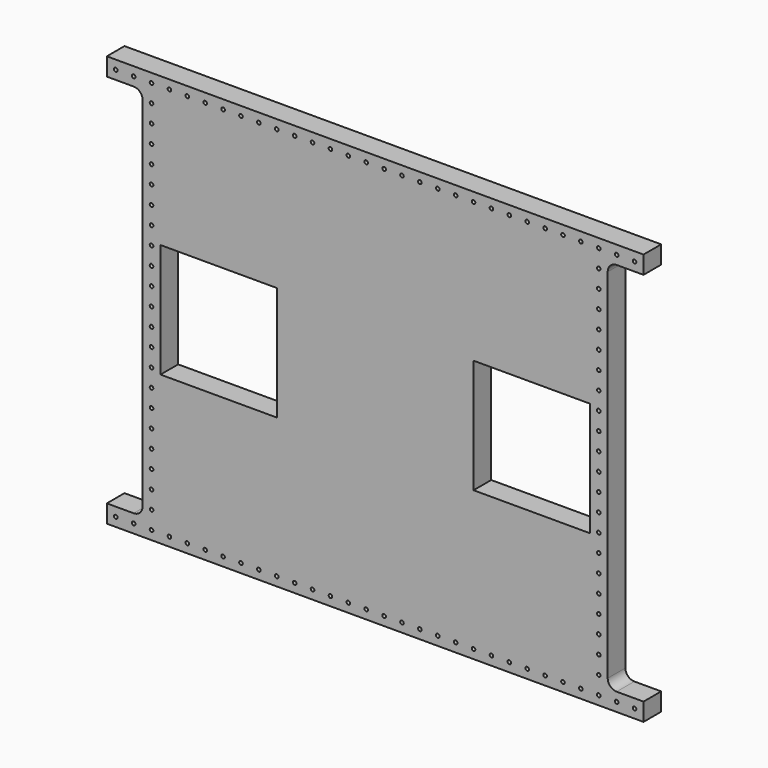
from build123d import *

# Parameters (mm, degrees)
F0_R      = 2.5527
F1_DEPTH  = 6
F2_W      = 165.1
F2_H      = 161.925
F3_DEPTH  = 25.4
F1_FACE_R = 2.5527
F1_FACE_W = 165.1
F1_FACE_H = 161.925
F4_DEPTH  = 25.4


with BuildPart() as f1:
    # F0 (on Front) → F1 (new body)
    with BuildSketch(Plane.XZ):
        with BuildLine():
            Line((381, 292.1), (-381, 292.1))
            Line((-381, 292.1), (-381, 266.7))
            Line((-381, 266.7), (-342.9, 266.7))
            ThreePointArc((-342.9, 266.7), (-333.919744, 262.980256), (-330.2, 254))
            Line((-330.2, 254), (-330.2, -254))
            ThreePointArc((-330.2, -254), (-333.919744, -262.980256), (-342.9, -266.7))
            Line((-342.9, -266.7), (-381, -266.7))
            Line((-381, -266.7), (-381, -292.1))
            Line((-381, -292.1), (381, -292.1))
            Line((381, -292.1), (381, -266.7))
            Line((381, -266.7), (342.9, -266.7))
            ThreePointArc((342.9, -266.7), (333.919744, -262.980256), (330.2, -254))
            Line((330.2, -254), (330.2, 254))
            ThreePointArc((330.2, 254), (333.919744, 262.980256), (342.9, 266.7))
            Line((342.9, 266.7), (381, 266.7))
            Line((381, 266.7), (381, 292.1))
        make_face()
        with Locations((-368.3, -279.4)):
            Circle(F0_R, mode=Mode.SUBTRACT)
        with Locations((-342.9, -279.4)):
            Circle(F0_R, mode=Mode.SUBTRACT)
        with Locations((-317.5, -279.4)):
            Circle(F0_R, mode=Mode.SUBTRACT)
        with Locations((-292.1, -279.4)):
            Circle(F0_R, mode=Mode.SUBTRACT)
        with Locations((-317.5, -254)):
            Circle(F0_R, mode=Mode.SUBTRACT)
        with Locations((-317.5, -228.6)):
            Circle(F0_R, mode=Mode.SUBTRACT)
        with Locations((-266.7, -279.4)):
            Circle(F0_R, mode=Mode.SUBTRACT)
        with Locations((-241.3, -279.4)):
            Circle(F0_R, mode=Mode.SUBTRACT)
        with Locations((-215.9, -279.4)):
            Circle(F0_R, mode=Mode.SUBTRACT)
        with Locations((-317.5, -203.2)):
            Circle(F0_R, mode=Mode.SUBTRACT)
        with Locations((-317.5, -177.8)):
            Circle(F0_R, mode=Mode.SUBTRACT)
        with Locations((-317.5, -152.4)):
            Circle(F0_R, mode=Mode.SUBTRACT)
        with Locations((-190.5, -279.4)):
            Circle(F0_R, mode=Mode.SUBTRACT)
        with Locations((-165.1, -279.4)):
            Circle(F0_R, mode=Mode.SUBTRACT)
        with Locations((-139.7, -279.4)):
            Circle(F0_R, mode=Mode.SUBTRACT)
        with Locations((-114.3, -279.4)):
            Circle(F0_R, mode=Mode.SUBTRACT)
        with Locations((-88.9, -279.4)):
            Circle(F0_R, mode=Mode.SUBTRACT)
        with Locations((-63.5, -279.4)):
            Circle(F0_R, mode=Mode.SUBTRACT)
        with Locations((-38.1, -279.4)):
            Circle(F0_R, mode=Mode.SUBTRACT)
        with Locations((-12.7, -279.4)):
            Circle(F0_R, mode=Mode.SUBTRACT)
        with Locations((-317.5, -127)):
            Circle(F0_R, mode=Mode.SUBTRACT)
        with Locations((-317.5, -101.6)):
            Circle(F0_R, mode=Mode.SUBTRACT)
        with Locations((-317.5, -76.2)):
            Circle(F0_R, mode=Mode.SUBTRACT)
        with Locations((-317.5, -50.8)):
            Circle(F0_R, mode=Mode.SUBTRACT)
        with Locations((-317.5, -25.4)):
            Circle(F0_R, mode=Mode.SUBTRACT)
        with Locations((12.7, -279.4)):
            Circle(F0_R, mode=Mode.SUBTRACT)
        with Locations((38.1, -279.4)):
            Circle(F0_R, mode=Mode.SUBTRACT)
        with Locations((63.5, -279.4)):
            Circle(F0_R, mode=Mode.SUBTRACT)
        with Locations((88.9, -279.4)):
            Circle(F0_R, mode=Mode.SUBTRACT)
        with Locations((114.3, -279.4)):
            Circle(F0_R, mode=Mode.SUBTRACT)
        with Locations((139.7, -279.4)):
            Circle(F0_R, mode=Mode.SUBTRACT)
        with Locations((165.1, -279.4)):
            Circle(F0_R, mode=Mode.SUBTRACT)
        with Locations((190.5, -279.4)):
            Circle(F0_R, mode=Mode.SUBTRACT)
        with Locations((215.9, -279.4)):
            Circle(F0_R, mode=Mode.SUBTRACT)
        with Locations((241.3, -279.4)):
            Circle(F0_R, mode=Mode.SUBTRACT)
        with Locations((266.7, -279.4)):
            Circle(F0_R, mode=Mode.SUBTRACT)
        with Locations((292.1, -279.4)):
            Circle(F0_R, mode=Mode.SUBTRACT)
        with Locations((317.5, -279.4)):
            Circle(F0_R, mode=Mode.SUBTRACT)
        with Locations((342.9, -279.4)):
            Circle(F0_R, mode=Mode.SUBTRACT)
        with Locations((368.3, -279.4)):
            Circle(F0_R, mode=Mode.SUBTRACT)
        with Locations((317.5, -254)):
            Circle(F0_R, mode=Mode.SUBTRACT)
        with Locations((317.5, -228.6)):
            Circle(F0_R, mode=Mode.SUBTRACT)
        with Locations((317.5, -203.2)):
            Circle(F0_R, mode=Mode.SUBTRACT)
        with Locations((317.5, -177.8)):
            Circle(F0_R, mode=Mode.SUBTRACT)
        with Locations((317.5, -152.4)):
            Circle(F0_R, mode=Mode.SUBTRACT)
        with Locations((317.5, -127)):
            Circle(F0_R, mode=Mode.SUBTRACT)
        with Locations((317.5, -101.6)):
            Circle(F0_R, mode=Mode.SUBTRACT)
        with Locations((317.5, -76.2)):
            Circle(F0_R, mode=Mode.SUBTRACT)
        with Locations((317.5, -50.8)):
            Circle(F0_R, mode=Mode.SUBTRACT)
        with Locations((317.5, -25.4)):
            Circle(F0_R, mode=Mode.SUBTRACT)
        with Locations((-317.5, 0)):
            Circle(F0_R, mode=Mode.SUBTRACT)
        with Locations((-317.5, 25.4)):
            Circle(F0_R, mode=Mode.SUBTRACT)
        with Locations((-317.5, 50.8)):
            Circle(F0_R, mode=Mode.SUBTRACT)
        with Locations((-317.5, 76.2)):
            Circle(F0_R, mode=Mode.SUBTRACT)
        with Locations((-317.5, 101.6)):
            Circle(F0_R, mode=Mode.SUBTRACT)
        with Locations((-317.5, 127)):
            Circle(F0_R, mode=Mode.SUBTRACT)
        with Locations((-317.5, 152.4)):
            Circle(F0_R, mode=Mode.SUBTRACT)
        with Locations((-317.5, 177.8)):
            Circle(F0_R, mode=Mode.SUBTRACT)
        with Locations((-317.5, 203.2)):
            Circle(F0_R, mode=Mode.SUBTRACT)
        with Locations((-317.5, 228.6)):
            Circle(F0_R, mode=Mode.SUBTRACT)
        with Locations((-317.5, 254)):
            Circle(F0_R, mode=Mode.SUBTRACT)
        with Locations((-368.3, 279.4)):
            Circle(F0_R, mode=Mode.SUBTRACT)
        with Locations((-342.9, 279.4)):
            Circle(F0_R, mode=Mode.SUBTRACT)
        with Locations((-317.5, 279.4)):
            Circle(F0_R, mode=Mode.SUBTRACT)
        with Locations((-292.1, 279.4)):
            Circle(F0_R, mode=Mode.SUBTRACT)
        with Locations((-266.7, 279.4)):
            Circle(F0_R, mode=Mode.SUBTRACT)
        with Locations((-241.3, 279.4)):
            Circle(F0_R, mode=Mode.SUBTRACT)
        with Locations((-215.9, 279.4)):
            Circle(F0_R, mode=Mode.SUBTRACT)
        with Locations((-190.5, 279.4)):
            Circle(F0_R, mode=Mode.SUBTRACT)
        with Locations((-165.1, 279.4)):
            Circle(F0_R, mode=Mode.SUBTRACT)
        with Locations((-139.7, 279.4)):
            Circle(F0_R, mode=Mode.SUBTRACT)
        with Locations((-114.3, 279.4)):
            Circle(F0_R, mode=Mode.SUBTRACT)
        with Locations((-88.9, 279.4)):
            Circle(F0_R, mode=Mode.SUBTRACT)
        with Locations((-63.5, 279.4)):
            Circle(F0_R, mode=Mode.SUBTRACT)
        with Locations((-38.1, 279.4)):
            Circle(F0_R, mode=Mode.SUBTRACT)
        with Locations((-12.7, 279.4)):
            Circle(F0_R, mode=Mode.SUBTRACT)
        with Locations((317.5, 0)):
            Circle(F0_R, mode=Mode.SUBTRACT)
        with Locations((317.5, 25.4)):
            Circle(F0_R, mode=Mode.SUBTRACT)
        with Locations((317.5, 50.8)):
            Circle(F0_R, mode=Mode.SUBTRACT)
        with Locations((317.5, 76.2)):
            Circle(F0_R, mode=Mode.SUBTRACT)
        with Locations((317.5, 101.6)):
            Circle(F0_R, mode=Mode.SUBTRACT)
        with Locations((317.5, 127)):
            Circle(F0_R, mode=Mode.SUBTRACT)
        with Locations((12.7, 279.4)):
            Circle(F0_R, mode=Mode.SUBTRACT)
        with Locations((38.1, 279.4)):
            Circle(F0_R, mode=Mode.SUBTRACT)
        with Locations((63.5, 279.4)):
            Circle(F0_R, mode=Mode.SUBTRACT)
        with Locations((88.9, 279.4)):
            Circle(F0_R, mode=Mode.SUBTRACT)
        with Locations((114.3, 279.4)):
            Circle(F0_R, mode=Mode.SUBTRACT)
        with Locations((139.7, 279.4)):
            Circle(F0_R, mode=Mode.SUBTRACT)
        with Locations((165.1, 279.4)):
            Circle(F0_R, mode=Mode.SUBTRACT)
        with Locations((317.5, 152.4)):
            Circle(F0_R, mode=Mode.SUBTRACT)
        with Locations((317.5, 177.8)):
            Circle(F0_R, mode=Mode.SUBTRACT)
        with Locations((317.5, 203.2)):
            Circle(F0_R, mode=Mode.SUBTRACT)
        with Locations((190.5, 279.4)):
            Circle(F0_R, mode=Mode.SUBTRACT)
        with Locations((215.9, 279.4)):
            Circle(F0_R, mode=Mode.SUBTRACT)
        with Locations((241.3, 279.4)):
            Circle(F0_R, mode=Mode.SUBTRACT)
        with Locations((266.7, 279.4)):
            Circle(F0_R, mode=Mode.SUBTRACT)
        with Locations((317.5, 228.6)):
            Circle(F0_R, mode=Mode.SUBTRACT)
        with Locations((317.5, 254)):
            Circle(F0_R, mode=Mode.SUBTRACT)
        with Locations((292.1, 279.4)):
            Circle(F0_R, mode=Mode.SUBTRACT)
        with Locations((317.5, 279.4)):
            Circle(F0_R, mode=Mode.SUBTRACT)
        with Locations((342.9, 279.4)):
            Circle(F0_R, mode=Mode.SUBTRACT)
        with Locations((368.3, 279.4)):
            Circle(F0_R, mode=Mode.SUBTRACT)
    extrude(amount=F1_DEPTH)

    # F2 (on face) → F3 (cut)
    with BuildSketch(Plane.XZ.offset(6)):
        with Locations((-222.25, 0)):
            Rectangle(F2_W, F2_H)
        with Locations((222.25, 0)):
            Rectangle(F2_W, F2_H)
    extrude(amount=-F3_DEPTH, mode=Mode.SUBTRACT)

    # F1_face (on face) → F4 (join)
    with BuildSketch(Plane.XZ.offset(6)):
        with BuildLine():
            Line((381, 292.1), (-381, 292.1))
            Line((-381, 292.1), (-381, 266.7))
            Line((-381, 266.7), (-342.9, 266.7))
            ThreePointArc((-342.9, 266.7), (-333.919744, 262.980256), (-330.2, 254))
            Line((-330.2, 254), (-330.2, -254))
            ThreePointArc((-330.2, -254), (-333.919744, -262.980256), (-342.9, -266.7))
            Line((-342.9, -266.7), (-381, -266.7))
            Line((-381, -266.7), (-381, -292.1))
            Line((-381, -292.1), (381, -292.1))
            Line((381, -292.1), (381, -266.7))
            Line((381, -266.7), (342.9, -266.7))
            ThreePointArc((342.9, -266.7), (333.919744, -262.980256), (330.2, -254))
            Line((330.2, -254), (330.2, 254))
            ThreePointArc((330.2, 254), (333.919744, 262.980256), (342.9, 266.7))
            Line((342.9, 266.7), (381, 266.7))
            Line((381, 266.7), (381, 292.1))
        make_face()
        with Locations((-368.3, -279.4)):
            Circle(F1_FACE_R, mode=Mode.SUBTRACT)
        with Locations((-342.9, -279.4)):
            Circle(F1_FACE_R, mode=Mode.SUBTRACT)
        with Locations((-317.5, -279.4)):
            Circle(F1_FACE_R, mode=Mode.SUBTRACT)
        with Locations((-292.1, -279.4)):
            Circle(F1_FACE_R, mode=Mode.SUBTRACT)
        with Locations((-317.5, -254)):
            Circle(F1_FACE_R, mode=Mode.SUBTRACT)
        with Locations((-317.5, -228.6)):
            Circle(F1_FACE_R, mode=Mode.SUBTRACT)
        with Locations((-266.7, -279.4)):
            Circle(F1_FACE_R, mode=Mode.SUBTRACT)
        with Locations((-241.3, -279.4)):
            Circle(F1_FACE_R, mode=Mode.SUBTRACT)
        with Locations((-215.9, -279.4)):
            Circle(F1_FACE_R, mode=Mode.SUBTRACT)
        with Locations((-190.5, -279.4)):
            Circle(F1_FACE_R, mode=Mode.SUBTRACT)
        with Locations((-317.5, -203.2)):
            Circle(F1_FACE_R, mode=Mode.SUBTRACT)
        with Locations((-317.5, -177.8)):
            Circle(F1_FACE_R, mode=Mode.SUBTRACT)
        with Locations((-317.5, -152.4)):
            Circle(F1_FACE_R, mode=Mode.SUBTRACT)
        with Locations((-165.1, -279.4)):
            Circle(F1_FACE_R, mode=Mode.SUBTRACT)
        with Locations((-139.7, -279.4)):
            Circle(F1_FACE_R, mode=Mode.SUBTRACT)
        with Locations((-114.3, -279.4)):
            Circle(F1_FACE_R, mode=Mode.SUBTRACT)
        with Locations((-88.9, -279.4)):
            Circle(F1_FACE_R, mode=Mode.SUBTRACT)
        with Locations((-63.5, -279.4)):
            Circle(F1_FACE_R, mode=Mode.SUBTRACT)
        with Locations((-38.1, -279.4)):
            Circle(F1_FACE_R, mode=Mode.SUBTRACT)
        with Locations((-12.7, -279.4)):
            Circle(F1_FACE_R, mode=Mode.SUBTRACT)
        with Locations((-317.5, -127)):
            Circle(F1_FACE_R, mode=Mode.SUBTRACT)
        with Locations((-317.5, -101.6)):
            Circle(F1_FACE_R, mode=Mode.SUBTRACT)
        with Locations((-317.5, -76.2)):
            Circle(F1_FACE_R, mode=Mode.SUBTRACT)
        with Locations((-317.5, -50.8)):
            Circle(F1_FACE_R, mode=Mode.SUBTRACT)
        with Locations((-317.5, -25.4)):
            Circle(F1_FACE_R, mode=Mode.SUBTRACT)
        with Locations((12.7, -279.4)):
            Circle(F1_FACE_R, mode=Mode.SUBTRACT)
        with Locations((38.1, -279.4)):
            Circle(F1_FACE_R, mode=Mode.SUBTRACT)
        with Locations((63.5, -279.4)):
            Circle(F1_FACE_R, mode=Mode.SUBTRACT)
        with Locations((88.9, -279.4)):
            Circle(F1_FACE_R, mode=Mode.SUBTRACT)
        with Locations((114.3, -279.4)):
            Circle(F1_FACE_R, mode=Mode.SUBTRACT)
        with Locations((139.7, -279.4)):
            Circle(F1_FACE_R, mode=Mode.SUBTRACT)
        with Locations((165.1, -279.4)):
            Circle(F1_FACE_R, mode=Mode.SUBTRACT)
        with Locations((190.5, -279.4)):
            Circle(F1_FACE_R, mode=Mode.SUBTRACT)
        with Locations((215.9, -279.4)):
            Circle(F1_FACE_R, mode=Mode.SUBTRACT)
        with Locations((241.3, -279.4)):
            Circle(F1_FACE_R, mode=Mode.SUBTRACT)
        with Locations((266.7, -279.4)):
            Circle(F1_FACE_R, mode=Mode.SUBTRACT)
        with Locations((292.1, -279.4)):
            Circle(F1_FACE_R, mode=Mode.SUBTRACT)
        with Locations((317.5, -279.4)):
            Circle(F1_FACE_R, mode=Mode.SUBTRACT)
        with Locations((317.5, -254)):
            Circle(F1_FACE_R, mode=Mode.SUBTRACT)
        with Locations((342.9, -279.4)):
            Circle(F1_FACE_R, mode=Mode.SUBTRACT)
        with Locations((368.3, -279.4)):
            Circle(F1_FACE_R, mode=Mode.SUBTRACT)
        with Locations((317.5, -228.6)):
            Circle(F1_FACE_R, mode=Mode.SUBTRACT)
        with Locations((317.5, -203.2)):
            Circle(F1_FACE_R, mode=Mode.SUBTRACT)
        with Locations((317.5, -177.8)):
            Circle(F1_FACE_R, mode=Mode.SUBTRACT)
        with Locations((317.5, -152.4)):
            Circle(F1_FACE_R, mode=Mode.SUBTRACT)
        with Locations((317.5, -127)):
            Circle(F1_FACE_R, mode=Mode.SUBTRACT)
        with Locations((317.5, -101.6)):
            Circle(F1_FACE_R, mode=Mode.SUBTRACT)
        with Locations((317.5, -76.2)):
            Circle(F1_FACE_R, mode=Mode.SUBTRACT)
        with Locations((317.5, -50.8)):
            Circle(F1_FACE_R, mode=Mode.SUBTRACT)
        with Locations((317.5, -25.4)):
            Circle(F1_FACE_R, mode=Mode.SUBTRACT)
        with Locations((-317.5, 0)):
            Circle(F1_FACE_R, mode=Mode.SUBTRACT)
        with Locations((-317.5, 25.4)):
            Circle(F1_FACE_R, mode=Mode.SUBTRACT)
        with Locations((-317.5, 50.8)):
            Circle(F1_FACE_R, mode=Mode.SUBTRACT)
        with Locations((-222.25, 0)):
            Rectangle(F1_FACE_W, F1_FACE_H, mode=Mode.SUBTRACT)
        with Locations((-317.5, 76.2)):
            Circle(F1_FACE_R, mode=Mode.SUBTRACT)
        with Locations((-317.5, 101.6)):
            Circle(F1_FACE_R, mode=Mode.SUBTRACT)
        with Locations((-317.5, 127)):
            Circle(F1_FACE_R, mode=Mode.SUBTRACT)
        with Locations((-317.5, 152.4)):
            Circle(F1_FACE_R, mode=Mode.SUBTRACT)
        with Locations((-317.5, 177.8)):
            Circle(F1_FACE_R, mode=Mode.SUBTRACT)
        with Locations((-317.5, 203.2)):
            Circle(F1_FACE_R, mode=Mode.SUBTRACT)
        with Locations((-317.5, 228.6)):
            Circle(F1_FACE_R, mode=Mode.SUBTRACT)
        with Locations((-368.3, 279.4)):
            Circle(F1_FACE_R, mode=Mode.SUBTRACT)
        with Locations((-342.9, 279.4)):
            Circle(F1_FACE_R, mode=Mode.SUBTRACT)
        with Locations((-317.5, 254)):
            Circle(F1_FACE_R, mode=Mode.SUBTRACT)
        with Locations((-317.5, 279.4)):
            Circle(F1_FACE_R, mode=Mode.SUBTRACT)
        with Locations((-292.1, 279.4)):
            Circle(F1_FACE_R, mode=Mode.SUBTRACT)
        with Locations((-266.7, 279.4)):
            Circle(F1_FACE_R, mode=Mode.SUBTRACT)
        with Locations((-241.3, 279.4)):
            Circle(F1_FACE_R, mode=Mode.SUBTRACT)
        with Locations((-215.9, 279.4)):
            Circle(F1_FACE_R, mode=Mode.SUBTRACT)
        with Locations((-190.5, 279.4)):
            Circle(F1_FACE_R, mode=Mode.SUBTRACT)
        with Locations((-165.1, 279.4)):
            Circle(F1_FACE_R, mode=Mode.SUBTRACT)
        with Locations((-139.7, 279.4)):
            Circle(F1_FACE_R, mode=Mode.SUBTRACT)
        with Locations((-114.3, 279.4)):
            Circle(F1_FACE_R, mode=Mode.SUBTRACT)
        with Locations((-88.9, 279.4)):
            Circle(F1_FACE_R, mode=Mode.SUBTRACT)
        with Locations((-63.5, 279.4)):
            Circle(F1_FACE_R, mode=Mode.SUBTRACT)
        with Locations((-38.1, 279.4)):
            Circle(F1_FACE_R, mode=Mode.SUBTRACT)
        with Locations((-12.7, 279.4)):
            Circle(F1_FACE_R, mode=Mode.SUBTRACT)
        with Locations((222.25, 0)):
            Rectangle(F1_FACE_W, F1_FACE_H, mode=Mode.SUBTRACT)
        with Locations((317.5, 0)):
            Circle(F1_FACE_R, mode=Mode.SUBTRACT)
        with Locations((317.5, 25.4)):
            Circle(F1_FACE_R, mode=Mode.SUBTRACT)
        with Locations((317.5, 50.8)):
            Circle(F1_FACE_R, mode=Mode.SUBTRACT)
        with Locations((317.5, 76.2)):
            Circle(F1_FACE_R, mode=Mode.SUBTRACT)
        with Locations((317.5, 101.6)):
            Circle(F1_FACE_R, mode=Mode.SUBTRACT)
        with Locations((317.5, 127)):
            Circle(F1_FACE_R, mode=Mode.SUBTRACT)
        with Locations((12.7, 279.4)):
            Circle(F1_FACE_R, mode=Mode.SUBTRACT)
        with Locations((38.1, 279.4)):
            Circle(F1_FACE_R, mode=Mode.SUBTRACT)
        with Locations((63.5, 279.4)):
            Circle(F1_FACE_R, mode=Mode.SUBTRACT)
        with Locations((88.9, 279.4)):
            Circle(F1_FACE_R, mode=Mode.SUBTRACT)
        with Locations((114.3, 279.4)):
            Circle(F1_FACE_R, mode=Mode.SUBTRACT)
        with Locations((139.7, 279.4)):
            Circle(F1_FACE_R, mode=Mode.SUBTRACT)
        with Locations((165.1, 279.4)):
            Circle(F1_FACE_R, mode=Mode.SUBTRACT)
        with Locations((317.5, 152.4)):
            Circle(F1_FACE_R, mode=Mode.SUBTRACT)
        with Locations((317.5, 177.8)):
            Circle(F1_FACE_R, mode=Mode.SUBTRACT)
        with Locations((317.5, 203.2)):
            Circle(F1_FACE_R, mode=Mode.SUBTRACT)
        with Locations((190.5, 279.4)):
            Circle(F1_FACE_R, mode=Mode.SUBTRACT)
        with Locations((215.9, 279.4)):
            Circle(F1_FACE_R, mode=Mode.SUBTRACT)
        with Locations((241.3, 279.4)):
            Circle(F1_FACE_R, mode=Mode.SUBTRACT)
        with Locations((266.7, 279.4)):
            Circle(F1_FACE_R, mode=Mode.SUBTRACT)
        with Locations((317.5, 228.6)):
            Circle(F1_FACE_R, mode=Mode.SUBTRACT)
        with Locations((317.5, 254)):
            Circle(F1_FACE_R, mode=Mode.SUBTRACT)
        with Locations((292.1, 279.4)):
            Circle(F1_FACE_R, mode=Mode.SUBTRACT)
        with Locations((317.5, 279.4)):
            Circle(F1_FACE_R, mode=Mode.SUBTRACT)
        with Locations((342.9, 279.4)):
            Circle(F1_FACE_R, mode=Mode.SUBTRACT)
        with Locations((368.3, 279.4)):
            Circle(F1_FACE_R, mode=Mode.SUBTRACT)
    extrude(amount=F4_DEPTH)


solid = f1.part
